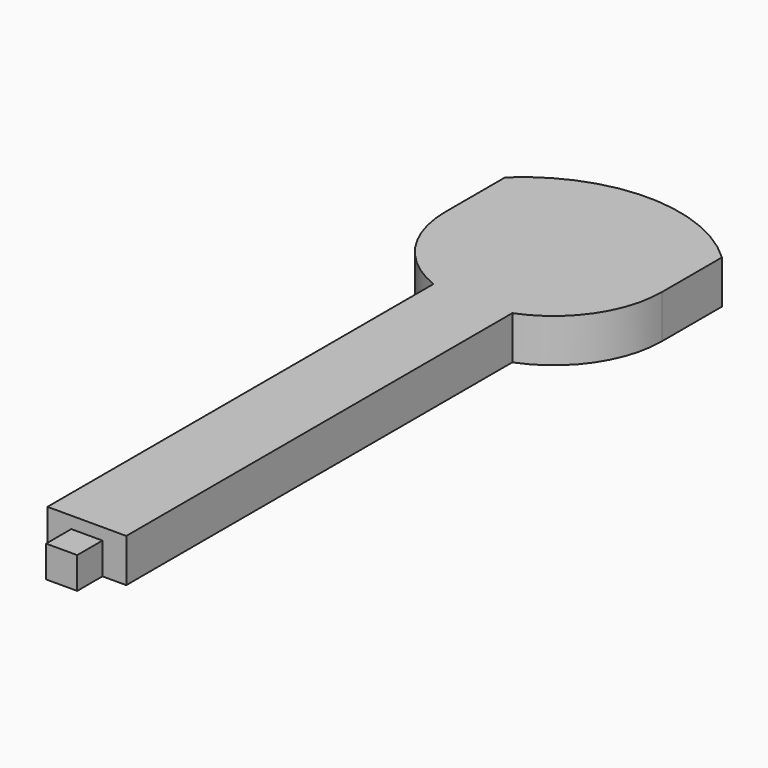
from build123d import *

# Parameters (mm, degrees)
SKETCH_W     = 20
SKETCH_H     = 128
PAD_DEPTH    = 11
PAD001_DEPTH = 11
SKETCH002_W  = 7.9
SKETCH002_H  = 8
PAD002_DEPTH = 8


with BuildPart() as part:
    # Sketch → Pad (new body)
    with BuildSketch(Plane.XY):
        with Locations((0, 214)):
            Rectangle(SKETCH_W, SKETCH_H)
    extrude(amount=PAD_DEPTH)

    # Sketch001 (on Face6 of Pad) → Pad001 (join)
    with BuildSketch(Plane.XY.offset(11)):
        with BuildLine():
            ThreePointArc((27.5, 317.047375), (0, 328), (-27.5, 317.047375))
            Line((-27.5, 317.047375), (-27.5, 298.047375))
            ThreePointArc((-27.5, 298.047375), (0, 270.547415), (27.5, 298.047375))
            Line((27.5, 317.047375), (27.5, 298.047375))
        make_face()
    extrude(amount=-PAD001_DEPTH)

    # Sketch002 (on Face5 of Pad001) → Pad002 (join)
    with BuildSketch(Plane.XZ.offset(-150)):
        with Locations((0, 4)):
            Rectangle(SKETCH002_W, SKETCH002_H)
    extrude(amount=PAD002_DEPTH)


solid = part.part
